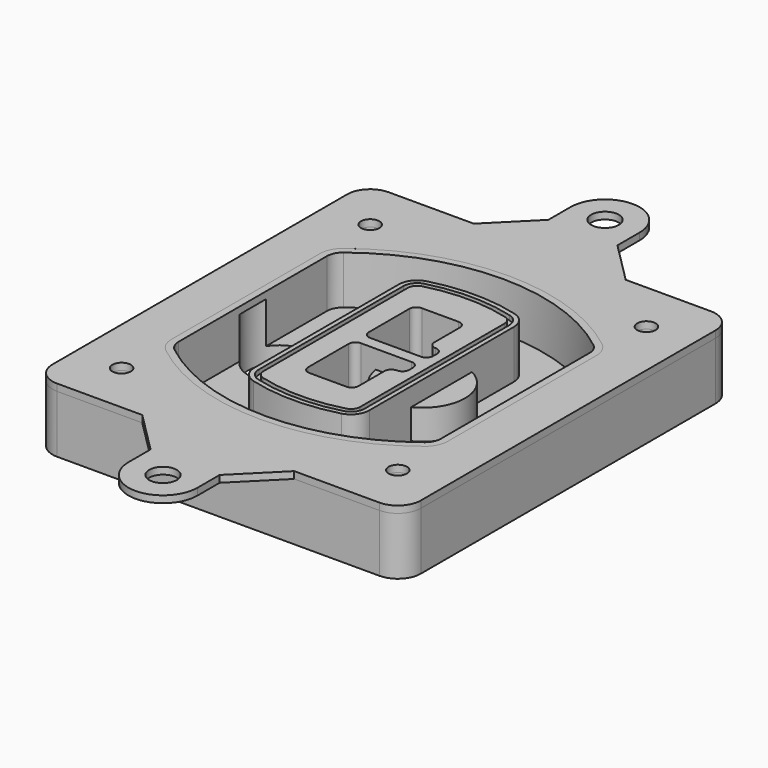
from build123d import *

# Parameters (mm, degrees)
F0_R      = 4
F1_DEPTH  = 25
F2_DEPTH  = 3
F3_DEPTH  = 18
F5_DEPTH  = 21
F6_DEPTH  = 2
F8_DEPTH  = 20
F9_DEPTH  = 16
F10_DEPTH = 25
F7_R      = 6
F7_R_2    = 4
F11_DEPTH = 6
F12_R     = 6
F12_R_2   = 4
F13_DEPTH = 3


with BuildPart() as f1:
    # F0 (on Top) → F1 (new body)
    with BuildSketch(Plane.XY):
        with BuildLine():
            ThreePointArc((-80, -80), (-77.0710678119, -87.0710678119), (-70, -90))
            Line((-70, -90), (70, -90))
            ThreePointArc((70, -90), (77.0710678119, -87.0710678119), (80, -80))
            Line((80, -80), (80, 80))
            ThreePointArc((80, 80), (77.0710678119, 87.0710678119), (70, 90))
            Line((70, 90), (-70, 90))
            ThreePointArc((-70, 90), (-77.0710678119, 87.0710678119), (-80, 80))
            Line((-80, 80), (-80, -80))
        make_face()
        with Locations((-60, -67.5)):
            Circle(F0_R, mode=Mode.SUBTRACT)
        with Locations((60, -67.5)):
            Circle(F0_R, mode=Mode.SUBTRACT)
        with Locations((-60, 67.5)):
            Circle(F0_R, mode=Mode.SUBTRACT)
        with BuildLine():
            ThreePointArc((-64, 40.2934422872), (-62.5820384798, 46.4328484224), (-58.6153846154, 51.3286200352))
            ThreePointArc((-58.6153846154, 51.3286200352), (0, 71.5), (58.6153846154, 51.3286200352))
            ThreePointArc((58.6153846154, 51.3286200352), (62.5820384798, 46.4328484224), (64, 40.2934422872))
            Line((64, 40.2934422872), (64, -40.2934422872))
            ThreePointArc((64, -40.2934422872), (62.5820384798, -46.4328484224), (58.6153846154, -51.3286200352))
            ThreePointArc((58.6153846154, -51.3286200352), (0, -71.5), (-58.6153846154, -51.3286200352))
            ThreePointArc((-58.6153846154, -51.3286200352), (-62.5820384798, -46.4328484224), (-64, -40.2934422872))
            Line((-64, -40.2934422872), (-64, 40.2934422872))
        make_face(mode=Mode.SUBTRACT)
        with Locations((60, 67.5)):
            Circle(F0_R, mode=Mode.SUBTRACT)
        with BuildLine():
            ThreePointArc((58.6153846154, 51.3286200352), (0, 71.5), (-58.6153846154, 51.3286200352))
            ThreePointArc((-58.6153846154, 51.3286200352), (-62.5820384798, 46.4328484224), (-64, 40.2934422872))
            Line((-64, 40.2934422872), (-64, -40.2934422872))
            ThreePointArc((-64, -40.2934422872), (-62.5820384798, -46.4328484224), (-58.6153846154, -51.3286200352))
            ThreePointArc((-58.6153846154, -51.3286200352), (0, -71.5), (58.6153846154, -51.3286200352))
            ThreePointArc((58.6153846154, -51.3286200352), (62.5820384798, -46.4328484224), (64, -40.2934422872))
            Line((64, -40.2934422872), (64, 40.2934422872))
            ThreePointArc((64, 40.2934422872), (62.5820384798, 46.4328484224), (58.6153846154, 51.3286200352))
        make_face()
        with BuildLine():
            Line((-60, -40.2934422872), (-60, 40.2934422872))
            ThreePointArc((-60, 40.2934422872), (-58.9871703427, 44.6787323838), (-56.1538461538, 48.1757121072))
            ThreePointArc((-56.1538461538, 48.1757121072), (0, 67.5), (56.1538461538, 48.1757121072))
            ThreePointArc((56.1538461538, 48.1757121072), (58.9871703427, 44.6787323838), (60, 40.2934422872))
            Line((60, 40.2934422872), (60, -40.2934422872))
            ThreePointArc((60, -40.2934422872), (58.9871703427, -44.6787323838), (56.1538461538, -48.1757121072))
            ThreePointArc((56.1538461538, -48.1757121072), (0, -67.5), (-56.1538461538, -48.1757121072))
            ThreePointArc((-56.1538461538, -48.1757121072), (-58.9871703427, -44.6787323838), (-60, -40.2934422872))
        make_face(mode=Mode.SUBTRACT)
        with BuildLine():
            ThreePointArc((-56.1538461538, 48.1757121072), (-58.9871703427, 44.6787323838), (-60, 40.2934422872))
            Line((-60, 40.2934422872), (-60, -40.2934422872))
            ThreePointArc((-60, -40.2934422872), (-58.9871703427, -44.6787323838), (-56.1538461538, -48.1757121072))
            ThreePointArc((-56.1538461538, -48.1757121072), (0, -67.5), (56.1538461538, -48.1757121072))
            ThreePointArc((56.1538461538, -48.1757121072), (58.9871703427, -44.6787323838), (60, -40.2934422872))
            Line((60, -40.2934422872), (60, 40.2934422872))
            ThreePointArc((60, 40.2934422872), (58.9871703427, 44.6787323838), (56.1538461538, 48.1757121072))
            ThreePointArc((56.1538461538, 48.1757121072), (0, 67.5), (-56.1538461538, 48.1757121072))
        make_face()
        with BuildLine():
            ThreePointArc((54.3076923077, 45.8110311612), (56.2910192399, 43.3631453548), (57, 40.2934422872))
            Line((57, 40.2934422872), (57, -40.2934422872))
            ThreePointArc((57, -40.2934422872), (56.2910192399, -43.3631453548), (54.3076923077, -45.8110311612))
            ThreePointArc((54.3076923077, -45.8110311612), (0, -64.5), (-54.3076923077, -45.8110311612))
            ThreePointArc((-54.3076923077, -45.8110311612), (-56.2910192399, -43.3631453548), (-57, -40.2934422872))
            Line((-57, -40.2934422872), (-57, 40.2934422872))
            ThreePointArc((-57, 40.2934422872), (-56.2910192399, 43.3631453548), (-54.3076923077, 45.8110311612))
            ThreePointArc((-54.3076923077, 45.8110311612), (0, 64.5), (54.3076923077, 45.8110311612))
        make_face(mode=Mode.SUBTRACT)
        with BuildLine():
            Line((57, -40.2934422872), (57, 40.2934422872))
            ThreePointArc((57, 40.2934422872), (56.2910192399, 43.3631453548), (54.3076923077, 45.8110311612))
            ThreePointArc((54.3076923077, 45.8110311612), (0, 64.5), (-54.3076923077, 45.8110311612))
            ThreePointArc((-54.3076923077, 45.8110311612), (-56.2910192399, 43.3631453548), (-57, 40.2934422872))
            Line((-57, 40.2934422872), (-57, -40.2934422872))
            ThreePointArc((-57, -40.2934422872), (-56.2910192399, -43.3631453548), (-54.3076923077, -45.8110311612))
            ThreePointArc((-54.3076923077, -45.8110311612), (0, -64.5), (54.3076923077, -45.8110311612))
            ThreePointArc((54.3076923077, -45.8110311612), (56.2910192399, -43.3631453548), (57, -40.2934422872))
        make_face()
    extrude(amount=-F1_DEPTH)

    # F0 (on Top) → F2 (join)
    with BuildSketch(Plane.XY):
        with BuildLine():
            ThreePointArc((-56.1538461538, 48.1757121072), (-58.9871703427, 44.6787323838), (-60, 40.2934422872))
            Line((-60, 40.2934422872), (-60, -40.2934422872))
            ThreePointArc((-60, -40.2934422872), (-58.9871703427, -44.6787323838), (-56.1538461538, -48.1757121072))
            ThreePointArc((-56.1538461538, -48.1757121072), (0, -67.5), (56.1538461538, -48.1757121072))
            ThreePointArc((56.1538461538, -48.1757121072), (58.9871703427, -44.6787323838), (60, -40.2934422872))
            Line((60, -40.2934422872), (60, 40.2934422872))
            ThreePointArc((60, 40.2934422872), (58.9871703427, 44.6787323838), (56.1538461538, 48.1757121072))
            ThreePointArc((56.1538461538, 48.1757121072), (0, 67.5), (-56.1538461538, 48.1757121072))
        make_face()
        with BuildLine():
            ThreePointArc((54.3076923077, 45.8110311612), (56.2910192399, 43.3631453548), (57, 40.2934422872))
            Line((57, 40.2934422872), (57, -40.2934422872))
            ThreePointArc((57, -40.2934422872), (56.2910192399, -43.3631453548), (54.3076923077, -45.8110311612))
            ThreePointArc((54.3076923077, -45.8110311612), (0, -64.5), (-54.3076923077, -45.8110311612))
            ThreePointArc((-54.3076923077, -45.8110311612), (-56.2910192399, -43.3631453548), (-57, -40.2934422872))
            Line((-57, -40.2934422872), (-57, 40.2934422872))
            ThreePointArc((-57, 40.2934422872), (-56.2910192399, 43.3631453548), (-54.3076923077, 45.8110311612))
            ThreePointArc((-54.3076923077, 45.8110311612), (0, 64.5), (54.3076923077, 45.8110311612))
        make_face(mode=Mode.SUBTRACT)
    extrude(amount=F2_DEPTH)

    # F0 (on Top) → F3 (cut)
    with BuildSketch(Plane.XY):
        with BuildLine():
            Line((57, -40.2934422872), (57, 40.2934422872))
            ThreePointArc((57, 40.2934422872), (56.2910192399, 43.3631453548), (54.3076923077, 45.8110311612))
            ThreePointArc((54.3076923077, 45.8110311612), (0, 64.5), (-54.3076923077, 45.8110311612))
            ThreePointArc((-54.3076923077, 45.8110311612), (-56.2910192399, 43.3631453548), (-57, 40.2934422872))
            Line((-57, 40.2934422872), (-57, -40.2934422872))
            ThreePointArc((-57, -40.2934422872), (-56.2910192399, -43.3631453548), (-54.3076923077, -45.8110311612))
            ThreePointArc((-54.3076923077, -45.8110311612), (0, -64.5), (54.3076923077, -45.8110311612))
            ThreePointArc((54.3076923077, -45.8110311612), (56.2910192399, -43.3631453548), (57, -40.2934422872))
        make_face()
    extrude(amount=-F3_DEPTH, mode=Mode.SUBTRACT)

    # F4 (on face) → F5 (join, through all)
    with BuildSketch(Plane.XY.offset(3)):
        with BuildLine():
            ThreePointArc((-25, -39.2465276821), (-23.3511545998, -44.1109737193), (-19.0842911877, -46.9702398883))
            ThreePointArc((-19.0842911877, -46.9702398883), (0, -49.5), (19.0842911877, -46.9702398883))
            ThreePointArc((19.0842911877, -46.9702398883), (23.3511545998, -44.1109737193), (25, -39.2465276821))
            Line((25, -39.2465276821), (25, 39.2465276821))
            ThreePointArc((25, 39.2465276821), (23.3511545998, 44.1109737193), (19.0842911877, 46.9702398883))
            ThreePointArc((19.0842911877, 46.9702398883), (0, 49.5), (-19.0842911877, 46.9702398883))
            ThreePointArc((-19.0842911877, 46.9702398883), (-23.3511545998, 44.1109737193), (-25, 39.2465276821))
            Line((-25, 39.2465276821), (-25, -39.2465276821))
        make_face()
        with BuildLine():
            ThreePointArc((18.5632183908, 45.0393118368), (21.7633659499, 42.89486221), (23, 39.2465276821))
            Line((23, 39.2465276821), (23, -39.2465276821))
            ThreePointArc((23, -39.2465276821), (21.7633659499, -42.89486221), (18.5632183908, -45.0393118368))
            ThreePointArc((18.5632183908, -45.0393118368), (0, -47.5), (-18.5632183908, -45.0393118368))
            ThreePointArc((-18.5632183908, -45.0393118368), (-21.7633659499, -42.89486221), (-23, -39.2465276821))
            Line((-23, -39.2465276821), (-23, 39.2465276821))
            ThreePointArc((-23, 39.2465276821), (-21.7633659499, 42.89486221), (-18.5632183908, 45.0393118368))
            ThreePointArc((-18.5632183908, 45.0393118368), (0, 47.5), (18.5632183908, 45.0393118368))
        make_face(mode=Mode.SUBTRACT)
        with BuildLine():
            Line((23, -39.2465276821), (23, 39.2465276821))
            ThreePointArc((23, 39.2465276821), (21.7633659499, 42.89486221), (18.5632183908, 45.0393118368))
            ThreePointArc((18.5632183908, 45.0393118368), (0, 47.5), (-18.5632183908, 45.0393118368))
            ThreePointArc((-18.5632183908, 45.0393118368), (-21.7633659499, 42.89486221), (-23, 39.2465276821))
            Line((-23, 39.2465276821), (-23, -39.2465276821))
            ThreePointArc((-23, -39.2465276821), (-21.7633659499, -42.89486221), (-18.5632183908, -45.0393118368))
            ThreePointArc((-18.5632183908, -45.0393118368), (0, -47.5), (18.5632183908, -45.0393118368))
            ThreePointArc((18.5632183908, -45.0393118368), (21.7633659499, -42.89486221), (23, -39.2465276821))
        make_face()
        with BuildLine():
            ThreePointArc((18.0421455939, 43.1083837852), (20.1755772999, 41.6787507007), (21, 39.2465276821))
            Line((21, 39.2465276821), (21, -39.2465276821))
            ThreePointArc((21, -39.2465276821), (20.1755772999, -41.6787507007), (18.0421455939, -43.1083837852))
            ThreePointArc((18.0421455939, -43.1083837852), (0, -45.5), (-18.0421455939, -43.1083837852))
            ThreePointArc((-18.0421455939, -43.1083837852), (-20.1755772999, -41.6787507007), (-21, -39.2465276821))
            Line((-21, -39.2465276821), (-21, 39.2465276821))
            ThreePointArc((-21, 39.2465276821), (-20.1755772999, 41.6787507007), (-18.0421455939, 43.1083837852))
            ThreePointArc((-18.0421455939, 43.1083837852), (0, 45.5), (18.0421455939, 43.1083837852))
        make_face(mode=Mode.SUBTRACT)
        with BuildLine():
            Line((21, -39.2465276821), (21, 39.2465276821))
            ThreePointArc((21, 39.2465276821), (20.1755772999, 41.6787507007), (18.0421455939, 43.1083837852))
            ThreePointArc((18.0421455939, 43.1083837852), (0, 45.5), (-18.0421455939, 43.1083837852))
            ThreePointArc((-18.0421455939, 43.1083837852), (-20.1755772999, 41.6787507007), (-21, 39.2465276821))
            Line((-21, 39.2465276821), (-21, -39.2465276821))
            ThreePointArc((-21, -39.2465276821), (-20.1755772999, -41.6787507007), (-18.0421455939, -43.1083837852))
            ThreePointArc((-18.0421455939, -43.1083837852), (0, -45.5), (18.0421455939, -43.1083837852))
            ThreePointArc((18.0421455939, -43.1083837852), (20.1755772999, -41.6787507007), (21, -39.2465276821))
        make_face()
        with BuildLine():
            Line((-8, -2.5), (14, -2.5))
            ThreePointArc((14, -2.5), (16.1213203436, -3.3786796564), (17, -5.5))
            Line((17, -5.5), (17, -7.5))
            ThreePointArc((17, -7.5), (16.1213203436, -9.6213203436), (14, -10.5))
            ThreePointArc((14, -10.5), (11.8786796564, -11.3786796564), (11, -13.5))
            Line((11, -13.5), (11, -27.5))
            ThreePointArc((11, -27.5), (10.1213203436, -29.6213203436), (8, -30.5))
            Line((8, -30.5), (-8, -30.5))
            ThreePointArc((-8, -30.5), (-10.1213203436, -29.6213203436), (-11, -27.5))
            Line((-11, -27.5), (-11, -5.5))
            ThreePointArc((-11, -5.5), (-10.1213203436, -3.3786796564), (-8, -2.5))
        make_face(mode=Mode.SUBTRACT)
        with BuildLine():
            ThreePointArc((-8, 2.5), (-10.1213203436, 3.3786796564), (-11, 5.5))
            Line((-11, 5.5), (-11, 27.5))
            ThreePointArc((-11, 27.5), (-10.1213203436, 29.6213203436), (-8, 30.5))
            Line((-8, 30.5), (8, 30.5))
            ThreePointArc((8, 30.5), (10.1213203436, 29.6213203436), (11, 27.5))
            Line((11, 27.5), (11, 13.5))
            ThreePointArc((11, 13.5), (11.8786796564, 11.3786796564), (14, 10.5))
            ThreePointArc((14, 10.5), (16.1213203436, 9.6213203436), (17, 7.5))
            Line((17, 7.5), (17, 5.5))
            ThreePointArc((17, 5.5), (16.1213203436, 3.3786796564), (14, 2.5))
            Line((14, 2.5), (-8, 2.5))
        make_face(mode=Mode.SUBTRACT)
    extrude(amount=-F5_DEPTH)

    # F4 (on face) → F6 (cut)
    with BuildSketch(Plane.XY.offset(3)):
        with BuildLine():
            Line((23, -39.2465276821), (23, 39.2465276821))
            ThreePointArc((23, 39.2465276821), (21.7633659499, 42.89486221), (18.5632183908, 45.0393118368))
            ThreePointArc((18.5632183908, 45.0393118368), (0, 47.5), (-18.5632183908, 45.0393118368))
            ThreePointArc((-18.5632183908, 45.0393118368), (-21.7633659499, 42.89486221), (-23, 39.2465276821))
            Line((-23, 39.2465276821), (-23, -39.2465276821))
            ThreePointArc((-23, -39.2465276821), (-21.7633659499, -42.89486221), (-18.5632183908, -45.0393118368))
            ThreePointArc((-18.5632183908, -45.0393118368), (0, -47.5), (18.5632183908, -45.0393118368))
            ThreePointArc((18.5632183908, -45.0393118368), (21.7633659499, -42.89486221), (23, -39.2465276821))
        make_face()
        with BuildLine():
            ThreePointArc((18.0421455939, 43.1083837852), (20.1755772999, 41.6787507007), (21, 39.2465276821))
            Line((21, 39.2465276821), (21, -39.2465276821))
            ThreePointArc((21, -39.2465276821), (20.1755772999, -41.6787507007), (18.0421455939, -43.1083837852))
            ThreePointArc((18.0421455939, -43.1083837852), (0, -45.5), (-18.0421455939, -43.1083837852))
            ThreePointArc((-18.0421455939, -43.1083837852), (-20.1755772999, -41.6787507007), (-21, -39.2465276821))
            Line((-21, -39.2465276821), (-21, 39.2465276821))
            ThreePointArc((-21, 39.2465276821), (-20.1755772999, 41.6787507007), (-18.0421455939, 43.1083837852))
            ThreePointArc((-18.0421455939, 43.1083837852), (0, 45.5), (18.0421455939, 43.1083837852))
        make_face(mode=Mode.SUBTRACT)
    extrude(amount=-F6_DEPTH, mode=Mode.SUBTRACT)

    # F7 (on face) → F8 (join)
    with BuildSketch(Plane(origin=(0, 0, -25), x_dir=(1, 0, 0), z_dir=(0, 0, -1))):
        with BuildLine():
            ThreePointArc((3.28842436, 0), (16.7567035675, 13.4682792075), (30.224982775, 0))
            Line((30.224982775, 0), (35.224982775, 0))
            ThreePointArc((35.224982775, 0), (16.7567035675, 18.4682792075), (-1.71157564, 0))
            Line((-1.71157564, 0), (3.28842436, 0))
        make_face()
        with BuildLine():
            Line((3.28842436, 0), (30.224982775, 0))
            ThreePointArc((30.224982775, 0), (16.7567035675, 13.4682792075), (3.28842436, 0))
        make_face()
        with BuildLine():
            ThreePointArc((3.28842436, 0), (16.7567035675, -13.4682792075), (30.224982775, 0))
            Line((30.224982775, 0), (3.28842436, 0))
        make_face()
        with BuildLine():
            Line((35.224982775, 0), (30.224982775, 0))
            ThreePointArc((30.224982775, 0), (16.7567035675, -13.4682792075), (3.28842436, 0))
            Line((3.28842436, 0), (-1.71157564, 0))
            ThreePointArc((-1.71157564, 0), (16.7567035675, -18.4682792075), (35.224982775, 0))
        make_face()
    extrude(amount=-F8_DEPTH)

    # F7 (on face) → F9 (cut)
    with BuildSketch(Plane(origin=(0, 0, -25), x_dir=(1, 0, 0), z_dir=(0, 0, -1))):
        with BuildLine():
            Line((3.28842436, 0), (30.224982775, 0))
            ThreePointArc((30.224982775, 0), (16.7567035675, 13.4682792075), (3.28842436, 0))
        make_face()
        with BuildLine():
            ThreePointArc((3.28842436, 0), (16.7567035675, -13.4682792075), (30.224982775, 0))
            Line((30.224982775, 0), (3.28842436, 0))
        make_face()
    extrude(amount=-F9_DEPTH, mode=Mode.SUBTRACT)

    # F7 (on face) → F10 (cut)
    with BuildSketch(Plane(origin=(0, 0, -25), x_dir=(1, 0, 0), z_dir=(0, 0, -1))):
        with BuildLine():
            Line((-59.0318229325, 0), (-32.0952645175, 0))
            ThreePointArc((-32.0952645175, 0), (-45.563543725, 13.4682792075), (-59.0318229325, 0))
        make_face()
        with BuildLine():
            ThreePointArc((-59.0318229325, 0), (-45.563543725, -13.4682792075), (-32.0952645175, 0))
            Line((-32.0952645175, 0), (-59.0318229325, 0))
        make_face()
    extrude(amount=-F10_DEPTH, mode=Mode.SUBTRACT)

    # F7 (on face) → F11 (cut)
    with BuildSketch(Plane(origin=(0, 0, -25), x_dir=(1, 0, 0), z_dir=(0, 0, -1))):
        with Locations((60, -67.5)):
            Circle(F7_R)
        with Locations((60, -67.5)):
            Circle(F7_R_2, mode=Mode.SUBTRACT)
        with Locations((60, -67.5)):
            Circle(F7_R)
        with Locations((60, -67.5)):
            Circle(F7_R_2, mode=Mode.SUBTRACT)
        with Locations((-60, -67.5)):
            Circle(F7_R)
        with Locations((-60, -67.5)):
            Circle(F7_R_2, mode=Mode.SUBTRACT)
        with Locations((-60, -67.5)):
            Circle(F7_R)
        with Locations((-60, -67.5)):
            Circle(F7_R_2, mode=Mode.SUBTRACT)
        with Locations((-60, 67.5)):
            Circle(F7_R)
        with Locations((-60, 67.5)):
            Circle(F7_R_2, mode=Mode.SUBTRACT)
        with Locations((-60, 67.5)):
            Circle(F7_R)
        with Locations((-60, 67.5)):
            Circle(F7_R_2, mode=Mode.SUBTRACT)
        with Locations((60, 67.5)):
            Circle(F7_R)
        with Locations((60, 67.5)):
            Circle(F7_R_2, mode=Mode.SUBTRACT)
        with Locations((60, 67.5)):
            Circle(F7_R)
        with Locations((60, 67.5)):
            Circle(F7_R_2, mode=Mode.SUBTRACT)
    extrude(amount=-F11_DEPTH, mode=Mode.SUBTRACT)


with BuildPart() as f13:
    # F12 (on face) → F13 (new body, through all)
    with BuildSketch(Plane.XY):
        with BuildLine():
            Line((-15, 108), (-33, 90))
            Line((-33, 90), (33, 90))
            Line((33, 90), (15, 108))
            Line((15, 108), (15, 120))
            ThreePointArc((15, 120), (0, 135), (-15, 120))
            Line((-15, 120), (-15, 108))
        make_face()
        with Locations((0, 120)):
            Circle(F12_R, mode=Mode.SUBTRACT)
        with BuildLine():
            Line((33, -90), (-33, -90))
            Line((-33, -90), (-15, -108))
            Line((-15, -108), (-15, -120))
            ThreePointArc((-15, -120), (0, -135), (15, -120))
            Line((15, -120), (15, -108))
            Line((15, -108), (33, -90))
        make_face()
        with Locations((0, -120)):
            Circle(F12_R, mode=Mode.SUBTRACT)
        with BuildLine():
            Line((33, 90), (-33, 90))
            Line((-33, 90), (-70, 90))
            ThreePointArc((-70, 90), (-77.0710678119, 87.0710678119), (-80, 80))
            Line((-80, 80), (-80, -80))
            ThreePointArc((-80, -80), (-77.0710678119, -87.0710678119), (-70, -90))
            Line((-70, -90), (-33, -90))
            Line((-33, -90), (33, -90))
            Line((33, -90), (70, -90))
            ThreePointArc((70, -90), (77.0710678119, -87.0710678119), (80, -80))
            Line((80, -80), (80, 80))
            ThreePointArc((80, 80), (77.0710678119, 87.0710678119), (70, 90))
            Line((70, 90), (33, 90))
        make_face()
        with Locations((-60, -67.5)):
            Circle(F12_R_2, mode=Mode.SUBTRACT)
        with Locations((60, -67.5)):
            Circle(F12_R_2, mode=Mode.SUBTRACT)
        with Locations((-60, 67.5)):
            Circle(F12_R_2, mode=Mode.SUBTRACT)
        with BuildLine():
            ThreePointArc((-60, 40.2934422872), (-58.9871703427, 44.6787323838), (-56.1538461538, 48.1757121072))
            ThreePointArc((-56.1538461538, 48.1757121072), (0, 67.5), (56.1538461538, 48.1757121072))
            ThreePointArc((56.1538461538, 48.1757121072), (58.9871703427, 44.6787323838), (60, 40.2934422872))
            Line((60, 40.2934422872), (60, -40.2934422872))
            ThreePointArc((60, -40.2934422872), (58.9871703427, -44.6787323838), (56.1538461538, -48.1757121072))
            ThreePointArc((56.1538461538, -48.1757121072), (0, -67.5), (-56.1538461538, -48.1757121072))
            ThreePointArc((-56.1538461538, -48.1757121072), (-58.9871703427, -44.6787323838), (-60, -40.2934422872))
            Line((-60, -40.2934422872), (-60, 40.2934422872))
        make_face(mode=Mode.SUBTRACT)
        with Locations((60, 67.5)):
            Circle(F12_R_2, mode=Mode.SUBTRACT)
    extrude(amount=F13_DEPTH)


solid = Compound([f1.part, f13.part])
